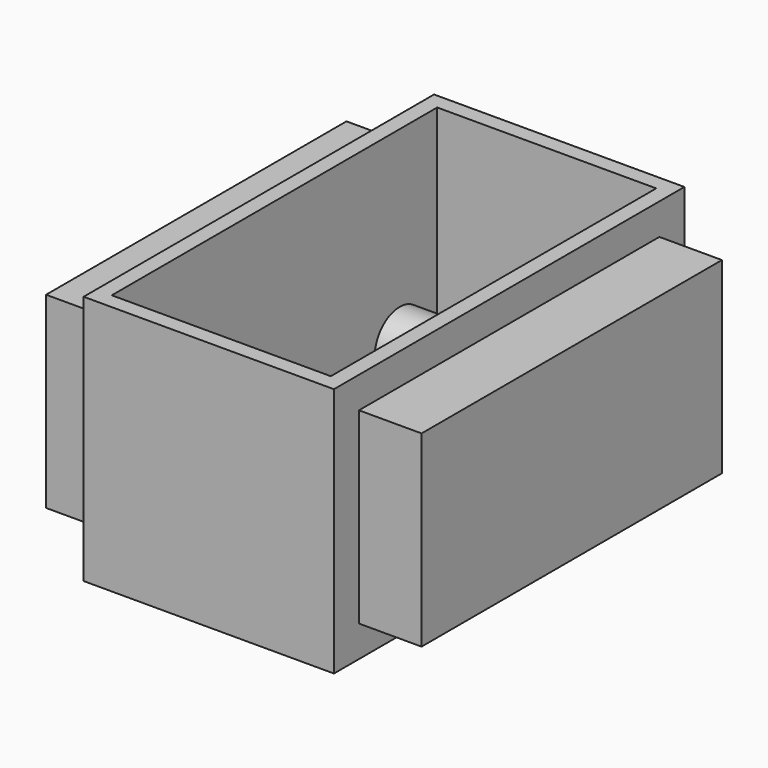
from build123d import *

# Parameters (mm, degrees)
F0_W     = 101.6
F0_H     = 177.8
F1_DEPTH = 50.8
F2_T     = -6.35
F3_W     = 152.4
F3_H     = 76.2
F4_DEPTH = 25.4
F5_W     = 152.4
F5_H     = 76.2
F6_DEPTH = 25.4
F7_R     = 12.7
F8_DEPTH = 88.9


with BuildPart() as f1:
    # F0 (on Top) → F1 (new body, symmetric)
    with BuildSketch(Plane.XY):
        Rectangle(F0_W, F0_H)
    extrude(amount=F1_DEPTH, both=True)

    # F2
    f2_openings = [f1.faces().sort_by_distance(p)[0] for p in [
        (0, 0, 50.8),
    ]]
    offset(amount=F2_T, openings=f2_openings)

    # F3 (on face) → F4 (join)
    with BuildSketch(Plane.YZ.offset(50.8)):
        Rectangle(F3_W, F3_H)
    extrude(amount=F4_DEPTH)

    # F5 (on face) → F6 (join)
    with BuildSketch(Plane(origin=(-50.8, 0, 0), x_dir=(0, -1, 0), z_dir=(-1, 0, 0))):
        Rectangle(F5_W, F5_H)
    extrude(amount=F6_DEPTH)

    # F7 (on face) → F8 (join)
    with BuildSketch(Plane(origin=(44.45, 0, 0), x_dir=(0, -1, 0), z_dir=(-1, 0, 0))):
        with Locations((-63.5, -25.4)):
            Circle(F7_R)
    extrude(amount=F8_DEPTH)


solid = f1.part
